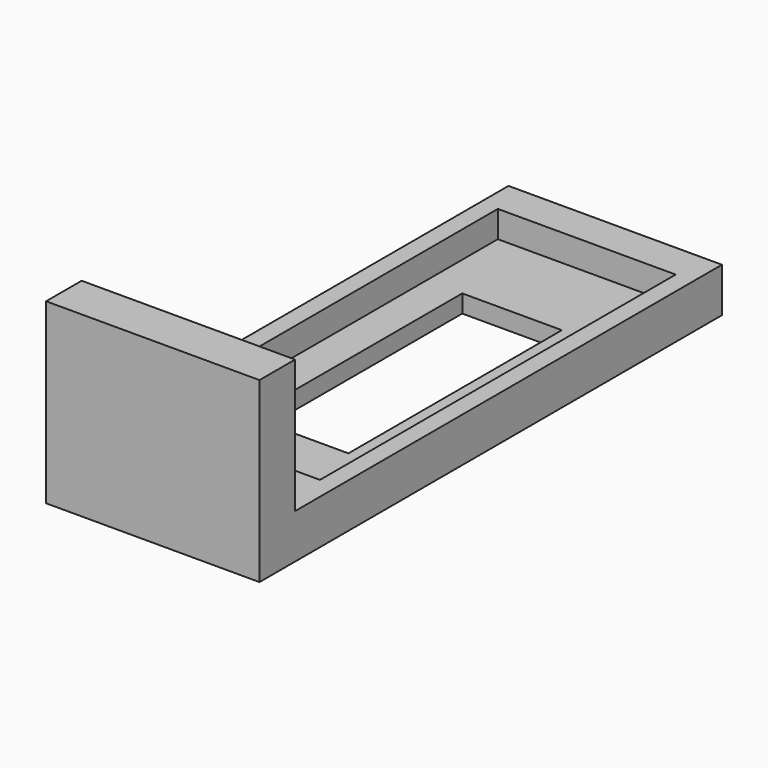
from build123d import *

# Parameters (mm, degrees)
F0_W     = 15.24
F0_H     = 38.1
F0_W_2   = 7.112
F0_H_2   = 19.05
F1_DEPTH = 3.175
F2_W     = 12.7
F2_H     = 31.75
F2_W_2   = 7.112
F2_H_2   = 19.05
F3_DEPTH = 1.905
F0_H_3   = 3.175
F4_DEPTH = 12.7


with BuildPart() as f1:
    # F0 (on Top) → F1 (new body)
    with BuildSketch(Plane.XY):
        with Locations((7.62, 19.05)):
            Rectangle(F0_W, F0_H)
        with Locations((7.366, 19.685)):
            Rectangle(F0_W_2, F0_H_2, mode=Mode.SUBTRACT)
    extrude(amount=F1_DEPTH)

    # F2 (on face) → F3 (cut)
    with BuildSketch(Plane.XY.offset(3.175)):
        with Locations((7.62, 19.685)):
            Rectangle(F2_W, F2_H)
        with Locations((7.366, 19.685)):
            Rectangle(F2_W_2, F2_H_2, mode=Mode.SUBTRACT)
    extrude(amount=-F3_DEPTH, mode=Mode.SUBTRACT)

    # F0 (on Top) → F4 (join)
    with BuildSketch(Plane.XY):
        with Locations((7.62, -1.5875)):
            Rectangle(F0_W, F0_H_3)
    extrude(amount=F4_DEPTH)


solid = f1.part
